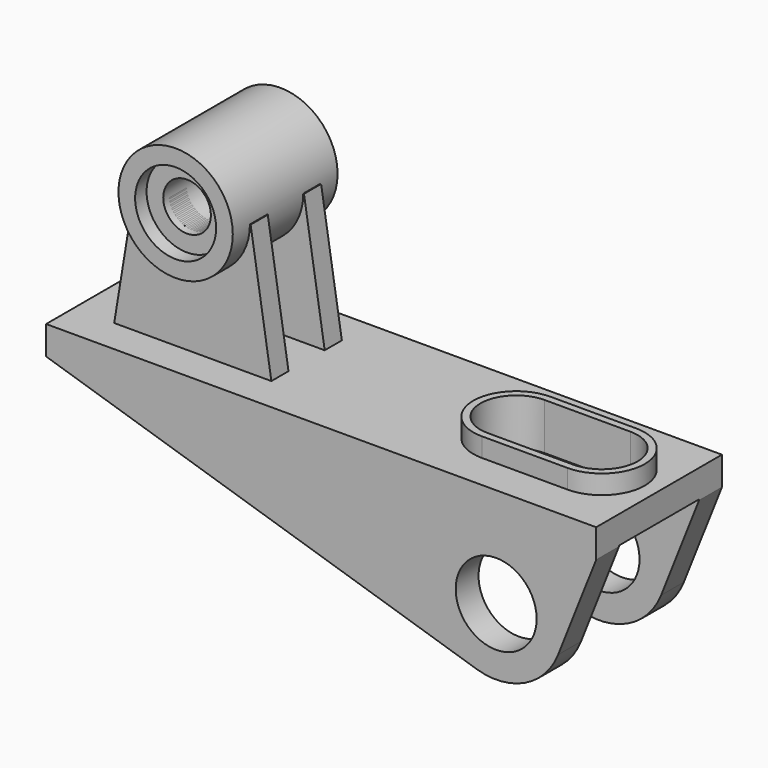
from build123d import *

# Parameters (mm, degrees)
F0_W           = 231
F0_H           = 66
F1_DEPTH       = 12
F3_DEPTH       = 8
F4_DEPTH       = 12.001
F5_R           = 24
F6_DEPTH       = 27.5
F9_DEPTH       = 9
F12_DEPTH      = 9
F13_R          = 10
F14_DEPTH      = 60.501
F15_R          = 17
F15_R_2        = 10
F16_DEPTH      = 6
F17_R          = 17
F17_R_2        = 10
F18_DEPTH      = 6
F19_R          = 17
F20_DEPTH      = 33
F21_W          = 42
F21_H          = 65.047390759
F22_DEPTH      = 115.501
F22_DEPTH_BACK = 115.501


with BuildPart() as f1:
    # F0 (on Top) → F1 (new body)
    with BuildSketch(Plane.XY):
        Rectangle(F0_W, F0_H)
    extrude(amount=-F1_DEPTH)

    # F2 (on face) → F3 (join)
    with BuildSketch(Plane.XY):
        with BuildLine():
            Line((91.5, 18), (55.5, 18))
            ThreePointArc((55.5, 18), (37.5, 0), (55.5, -18))
            Line((55.5, -18), (91.5, -18))
            ThreePointArc((91.5, -18), (109.5, 0), (91.5, 18))
        make_face()
        with BuildLine():
            ThreePointArc((55.5, -15), (40.5, 0), (55.5, 15))
            Line((55.5, 15), (91.5, 15))
            ThreePointArc((91.5, 15), (106.5, 0), (91.5, -15))
            Line((91.5, -15), (55.5, -15))
        make_face(mode=Mode.SUBTRACT)
    extrude(amount=F3_DEPTH)

    # F2 (on face) → F4 (cut, through all)
    with BuildSketch(Plane.XY):
        with BuildLine():
            Line((91.5, 15), (55.5, 15))
            ThreePointArc((55.5, 15), (40.5, 0), (55.5, -15))
            Line((55.5, -15), (91.5, -15))
            ThreePointArc((91.5, -15), (106.5, 0), (91.5, 15))
        make_face()
    extrude(amount=-F4_DEPTH, mode=Mode.SUBTRACT)

    # F19 (on Front) → F20 (join, symmetric)
    with BuildSketch(Plane.XZ):
        with BuildLine():
            Line((-115.5, -12), (65.1115461391, -68.7139259905))
            ThreePointArc((65.1115461391, -68.7139259905), (85.5450639021, -67.2767963871), (99.5321066415, -52.3116159648))
            Line((99.5321066415, -52.3116159648), (115.5, -12))
            Line((115.5, -12), (-115.5, -12))
        make_face()
        with Locations((73.5, -42)):
            Circle(F19_R, mode=Mode.SUBTRACT)
    extrude(amount=F20_DEPTH, both=True)

    # F21 (on Right) → F22 (cut, two sides)
    with BuildSketch(Plane.YZ) as f22_sk:
        with Locations((0, -44.1492460668)):
            Rectangle(F21_W, F21_H)
    extrude(amount=F22_DEPTH, mode=Mode.SUBTRACT)
    extrude(f22_sk.sketch, amount=-F22_DEPTH_BACK, mode=Mode.SUBTRACT)


with BuildPart() as f6:
    # F5 (on Front) → F6 (new body, symmetric)
    with BuildSketch(Plane.XZ):
        with Locations((-65.5, 55)):
            Circle(F5_R)
    extrude(amount=F6_DEPTH, both=True)


with BuildPart() as f9:
    # F8 (on offset) → F9 (new body)
    with BuildSketch(Plane.XZ.offset(18.5)):
        Polygon((-89.5, 55), (-98.5, 0), (-32.5, 0), (-41.2014952838, 55), align=None)
    extrude(amount=-F9_DEPTH)


with BuildPart() as f12:
    # F11 (on offset) → F12 (new body)
    with BuildSketch(Plane(origin=(0, 18.5, 0), x_dir=(-1, 0, 0), z_dir=(0, 1, 0))):
        Polygon((41.2014952838, 55), (32.5, 0), (98.5, 0), (89.5, 55), align=None)
    extrude(amount=-F12_DEPTH)


with BuildPart() as f14_tool:
    # F13 (on face) → F14 (new body, through all)
    with BuildSketch(Plane(origin=(0, 27.5, 0), x_dir=(-1, 0, 0), z_dir=(0, 1, 0))):
        with Locations((65.5, 55)):
            Circle(F13_R)
    extrude(amount=-F14_DEPTH)


with BuildPart() as f6_1:
    add(f6.part)

    # F14: cut by f14_tool
    add(f14_tool.part, mode=Mode.SUBTRACT)

    # F15 (on face) → F16 (cut)
    with BuildSketch(Plane(origin=(0, 27.5, 0), x_dir=(-1, 0, 0), z_dir=(0, 1, 0))):
        with Locations((65.5, 55)):
            Circle(F15_R)
        with Locations((65.5, 55)):
            Circle(F15_R_2, mode=Mode.SUBTRACT)
    extrude(amount=-F16_DEPTH, mode=Mode.SUBTRACT)

    # F17 (on face) → F18 (cut)
    with BuildSketch(Plane.XZ.offset(27.5)):
        with Locations((-65.5, 55)):
            Circle(F17_R)
        with Locations((-65.5, 55)):
            Circle(F17_R_2, mode=Mode.SUBTRACT)
    extrude(amount=-F18_DEPTH, mode=Mode.SUBTRACT)


with BuildPart() as f9_1:
    add(f9.part)

    # F14: cut by f14_tool
    add(f14_tool.part, mode=Mode.SUBTRACT)


with BuildPart() as f12_1:
    add(f12.part)

    # F14: cut by f14_tool
    add(f14_tool.part, mode=Mode.SUBTRACT)


solid = Compound([f1.part, f6_1.part, f9_1.part, f12_1.part])
